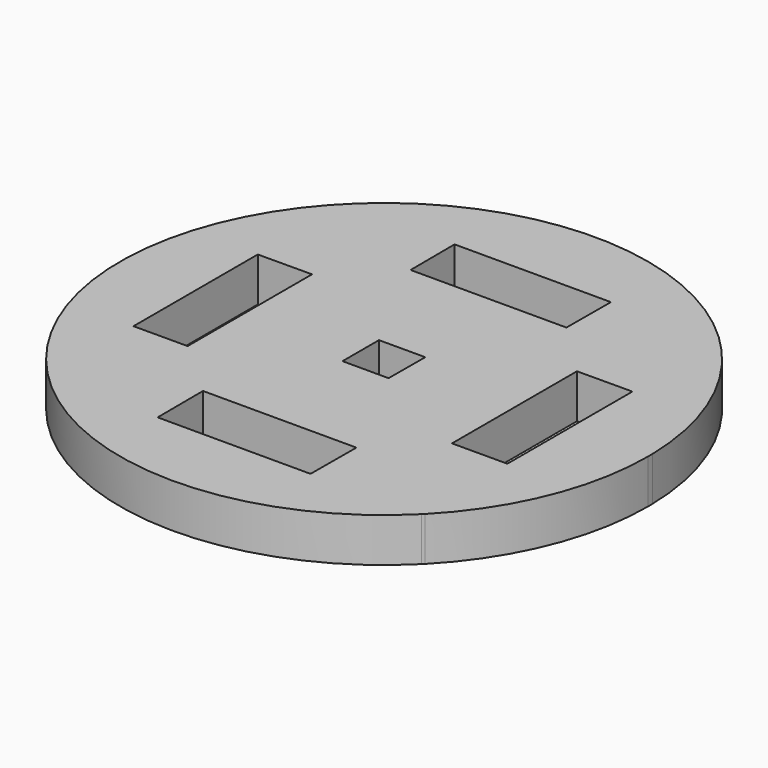
from build123d import *

# Parameters (mm, degrees)
F1_DEPTH = 5


with BuildPart() as f1:
    # F0 (on Top) → F1 (new body)
    with BuildSketch(Plane.XY):
        with BuildLine():
            ThreePointArc((379.525959, 223.226488), (379.643478, 223.344661), (379.760338, 223.463485))
            Line((379.760338, 223.463485), (379.428555, 223.323892))
            Line((379.428555, 223.323892), (379.525959, 223.226488))
        make_face()
        with BuildLine():
            ThreePointArc((379.760338, 223.463485), (386.092492, 233.113339), (388.312756, 244.439691))
            ThreePointArc((388.312756, 244.439691), (388.310904, 244.773005), (388.305349, 245.106277))
            ThreePointArc((388.305349, 245.106277), (330.470527, 255.611544), (379.525959, 223.226488))
            Line((379.525959, 223.226488), (379.428555, 223.323892))
            Line((379.428555, 223.323892), (379.760338, 223.463485))
        make_face()
        Polygon((337.001699, 235.473338), (337.001699, 253.128634), (343.146089, 253.156912), (343.146089, 250.818692), (343.146089, 250.623444), (343.146089, 235.485236), align=None, mode=Mode.SUBTRACT)
        Polygon((349.594001, 229.606358), (367.031511, 229.606358), (367.001699, 223.128634), (349.623813, 223.128634), align=None, mode=Mode.SUBTRACT)
        Polygon((373.146089, 235.543326), (373.146089, 253.294979), (379.428555, 253.323892), (379.428555, 235.555491), align=None, mode=Mode.SUBTRACT)
        Polygon((360.944925, 246.99601), (360.921156, 241.831291), (360.938548, 241.813899), (360.921076, 241.813899), (355.686963, 241.813899), (355.686963, 246.989038), (355.686963, 247.007774), (355.706094, 246.989064), (360.868974, 246.99591), (360.945276, 247.072211), align=None, mode=Mode.SUBTRACT)
        Polygon((367.168043, 259.273024), (349.457468, 259.273024), (349.428555, 265.555491), (367.196957, 265.555491), align=None, mode=Mode.SUBTRACT)
    extrude(amount=F1_DEPTH)


solid = f1.part
